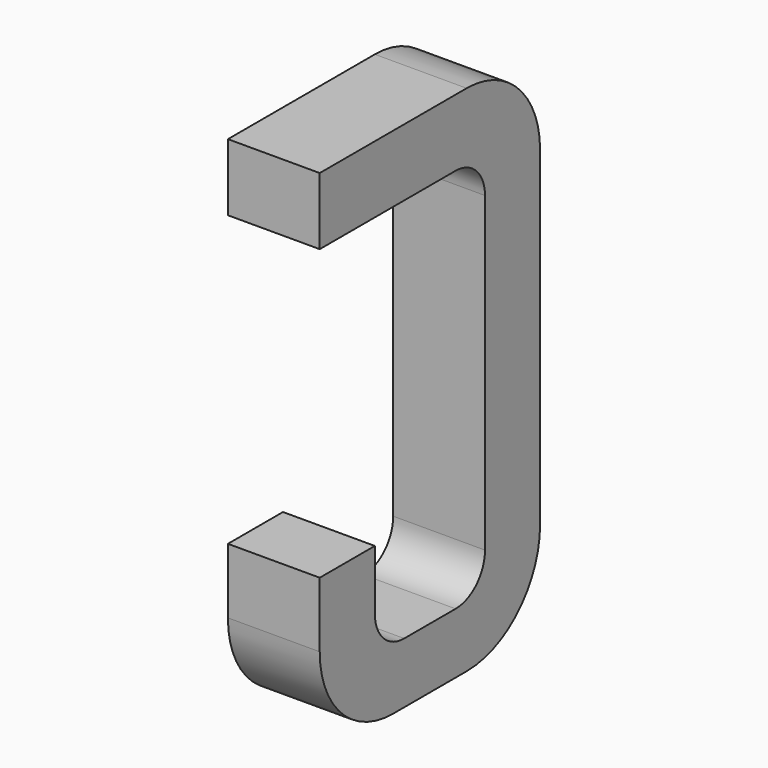
from build123d import *

# Parameters (mm, degrees)
BOX130_W     = 0.5
BOX130_H     = 1.5
BOX130_DEPTH = 2.795
FILLET304_R  = 0.5
FILLET311_R  = 0.5
FILLET316_R  = 0.5
BOX153_W     = 0.75
BOX153_H     = 2.1
BOX153_DEPTH = 1
FILLET324_R  = 0.2
FILLET318_R  = 0.2
FILLET317_R  = 0.2
FILLET329_R  = 0.2
BOX148_W     = 1
BOX148_H     = 1.575
BOX148_DEPTH = 3


with BuildPart() as part:
    # Box130 → Box130 (join)
    with BuildSketch(Plane(origin=(-0.25, 11.125, 0), x_dir=(1, 0, 0), z_dir=(0, 0, 1))):
        with Locations((0.25, 0.75)):
            Rectangle(BOX130_W, BOX130_H)
    extrude(amount=BOX130_DEPTH)

    # Fillet304
    fillet304_edges = [part.edges().sort_by_distance(p)[0] for p in [
        (0, 12.625, 0),
    ]]
    fillet(fillet304_edges, radius=FILLET304_R)

    # Fillet311
    fillet311_edges = [part.edges().sort_by_distance(p)[0] for p in [
        (0, 12.625, 2.795),
    ]]
    fillet(fillet311_edges, radius=FILLET311_R)

    # Fillet316
    fillet316_edges = [part.edges().sort_by_distance(p)[0] for p in [
        (0, 11.125, 0),
    ]]
    fillet(fillet316_edges, radius=FILLET316_R)

    # Box153 → Box153 (cut)
    with BuildSketch(Plane(origin=(-0.5, 11.5, 0.33), x_dir=(0, 1, 0), z_dir=(1, 0, 0))):
        with Locations((0.375, 1.05)):
            Rectangle(BOX153_W, BOX153_H)
    extrude(amount=BOX153_DEPTH, mode=Mode.SUBTRACT)

    # Fillet324
    fillet324_edges = [part.edges().sort_by_distance(p)[0] for p in [
        (0, 11.5, 0.33),
    ]]
    fillet(fillet324_edges, radius=FILLET324_R)

    # Fillet318
    fillet318_edges = [part.edges().sort_by_distance(p)[0] for p in [
        (0, 12.25, 0.33),
    ]]
    fillet(fillet318_edges, radius=FILLET318_R)

    # Fillet317
    fillet317_edges = [part.edges().sort_by_distance(p)[0] for p in [
        (0, 11.5, 2.43),
    ]]
    fillet(fillet317_edges, radius=FILLET317_R)

    # Fillet329
    fillet329_edges = [part.edges().sort_by_distance(p)[0] for p in [
        (0, 12.25, 2.43),
    ]]
    fillet(fillet329_edges, radius=FILLET329_R)

    # Box148 → Box148 (cut)
    with BuildSketch(Plane(origin=(-1, 11, 0.855), x_dir=(0, 1, 0), z_dir=(1, 0, 0))):
        with Locations((0.5, 0.7875)):
            Rectangle(BOX148_W, BOX148_H)
    extrude(amount=BOX148_DEPTH, mode=Mode.SUBTRACT)


with BuildPart() as part_1:
    # Body043 placement: moved
    add(part.part.moved(Location((-6.35, 0, 0))))


solid = part_1.part
